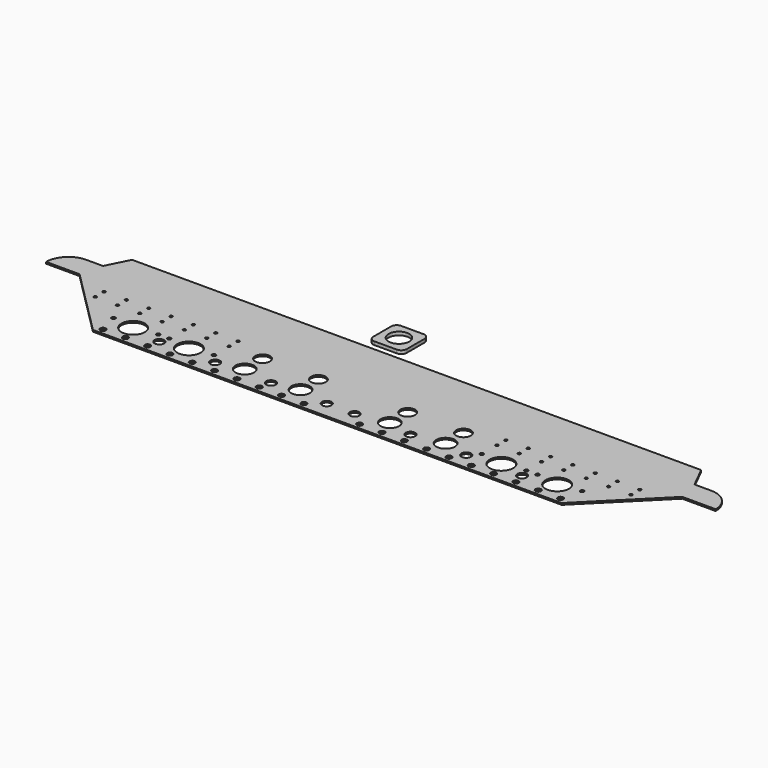
from build123d import *

# Parameters (mm, degrees)
F0_R     = 2.5
F0_R_2   = 4.25
F0_R_3   = 10.5
F0_R_4   = 1.65
F0_R_5   = 8.35
F0_R_6   = 1.25
F0_R_7   = 6.6
F1_DEPTH = 1.5
F2_R     = 9.3
F3_DEPTH = 3


with BuildPart() as f1:
    # F0 (on Top) → F1 (new body)
    with BuildSketch(Plane.XY):
        with BuildLine():
            Line((255, 0), (0, 0))
            Line((0, 0), (-255, 0))
            Line((-255, 0), (-265, -20))
            Line((-265, -20), (-280, -20))
            ThreePointArc((-280, -20), (-294.142136, -25.857864), (-300, -40))
            Line((-300, -40), (-270, -40))
            Line((-270, -40), (-210, -100))
            Line((-210, -100), (0, -100))
            Line((0, -100), (210, -100))
            Line((210, -100), (270, -40))
            Line((270, -40), (300, -40))
            ThreePointArc((300, -40), (294.142136, -25.857864), (280, -20))
            Line((280, -20), (265, -20))
            Line((265, -20), (255, 0))
        make_face()
        with Locations((-205, -95)):
            Circle(F0_R, mode=Mode.SUBTRACT)
        with Locations((-185, -95)):
            Circle(F0_R, mode=Mode.SUBTRACT)
        with Locations((-165, -95)):
            Circle(F0_R, mode=Mode.SUBTRACT)
        with Locations((-162.5, -85)):
            Circle(F0_R_2, mode=Mode.SUBTRACT)
        with Locations((-190, -80)):
            Circle(F0_R_3, mode=Mode.SUBTRACT)
        with Locations((-210, -77)):
            Circle(F0_R_4, mode=Mode.SUBTRACT)
        with Locations((-170, -77)):
            Circle(F0_R_4, mode=Mode.SUBTRACT)
        with Locations((-160, -77)):
            Circle(F0_R_4, mode=Mode.SUBTRACT)
        with Locations((-145, -95)):
            Circle(F0_R, mode=Mode.SUBTRACT)
        with Locations((-125, -95)):
            Circle(F0_R, mode=Mode.SUBTRACT)
        with Locations((-105, -95)):
            Circle(F0_R, mode=Mode.SUBTRACT)
        with Locations((-85, -95)):
            Circle(F0_R, mode=Mode.SUBTRACT)
        with Locations((-65, -95)):
            Circle(F0_R, mode=Mode.SUBTRACT)
        with Locations((-45, -95)):
            Circle(F0_R, mode=Mode.SUBTRACT)
        with Locations((-25, -95)):
            Circle(F0_R, mode=Mode.SUBTRACT)
        with Locations((-112.5, -85)):
            Circle(F0_R_2, mode=Mode.SUBTRACT)
        with Locations((-140, -80)):
            Circle(F0_R_3, mode=Mode.SUBTRACT)
        with Locations((-120, -77)):
            Circle(F0_R_4, mode=Mode.SUBTRACT)
        with Locations((-90, -80)):
            Circle(F0_R_5, mode=Mode.SUBTRACT)
        with Locations((-62.5, -85)):
            Circle(F0_R_2, mode=Mode.SUBTRACT)
        with Locations((-12.5, -85)):
            Circle(F0_R_2, mode=Mode.SUBTRACT)
        with Locations((-40, -80)):
            Circle(F0_R_5, mode=Mode.SUBTRACT)
        with Locations((-240, -60)):
            Circle(F0_R_6, mode=Mode.SUBTRACT)
        with Locations((-220, -60)):
            Circle(F0_R_6, mode=Mode.SUBTRACT)
        with Locations((-200, -60)):
            Circle(F0_R_6, mode=Mode.SUBTRACT)
        with Locations((-180, -60)):
            Circle(F0_R_6, mode=Mode.SUBTRACT)
        with Locations((-160, -60)):
            Circle(F0_R_6, mode=Mode.SUBTRACT)
        with Locations((-140, -60)):
            Circle(F0_R_6, mode=Mode.SUBTRACT)
        with Locations((-120, -60)):
            Circle(F0_R_6, mode=Mode.SUBTRACT)
        with Locations((-90, -60)):
            Circle(F0_R_7, mode=Mode.SUBTRACT)
        with Locations((-40, -60)):
            Circle(F0_R_7, mode=Mode.SUBTRACT)
        with Locations((25, -95)):
            Circle(F0_R, mode=Mode.SUBTRACT)
        with Locations((45, -95)):
            Circle(F0_R, mode=Mode.SUBTRACT)
        with Locations((65, -95)):
            Circle(F0_R, mode=Mode.SUBTRACT)
        with Locations((85, -95)):
            Circle(F0_R, mode=Mode.SUBTRACT)
        with Locations((105, -95)):
            Circle(F0_R, mode=Mode.SUBTRACT)
        with Locations((125, -95)):
            Circle(F0_R, mode=Mode.SUBTRACT)
        with Locations((145, -95)):
            Circle(F0_R, mode=Mode.SUBTRACT)
        with Locations((12.5, -85)):
            Circle(F0_R_2, mode=Mode.SUBTRACT)
        with Locations((62.5, -85)):
            Circle(F0_R_2, mode=Mode.SUBTRACT)
        with Locations((40, -80)):
            Circle(F0_R_5, mode=Mode.SUBTRACT)
        with Locations((112.5, -85)):
            Circle(F0_R_2, mode=Mode.SUBTRACT)
        with Locations((90, -80)):
            Circle(F0_R_5, mode=Mode.SUBTRACT)
        with Locations((140, -80)):
            Circle(F0_R_3, mode=Mode.SUBTRACT)
        with Locations((120, -77)):
            Circle(F0_R_4, mode=Mode.SUBTRACT)
        with Locations((165, -95)):
            Circle(F0_R, mode=Mode.SUBTRACT)
        with Locations((185, -95)):
            Circle(F0_R, mode=Mode.SUBTRACT)
        with Locations((205, -95)):
            Circle(F0_R, mode=Mode.SUBTRACT)
        with Locations((162.5, -85)):
            Circle(F0_R_2, mode=Mode.SUBTRACT)
        with Locations((160, -77)):
            Circle(F0_R_4, mode=Mode.SUBTRACT)
        with Locations((170, -77)):
            Circle(F0_R_4, mode=Mode.SUBTRACT)
        with Locations((190, -80)):
            Circle(F0_R_3, mode=Mode.SUBTRACT)
        with Locations((210, -77)):
            Circle(F0_R_4, mode=Mode.SUBTRACT)
        with Locations((40, -60)):
            Circle(F0_R_7, mode=Mode.SUBTRACT)
        with Locations((90, -60)):
            Circle(F0_R_7, mode=Mode.SUBTRACT)
        with Locations((120, -60)):
            Circle(F0_R_6, mode=Mode.SUBTRACT)
        with Locations((140, -60)):
            Circle(F0_R_6, mode=Mode.SUBTRACT)
        with Locations((160, -60)):
            Circle(F0_R_6, mode=Mode.SUBTRACT)
        with Locations((180, -60)):
            Circle(F0_R_6, mode=Mode.SUBTRACT)
        with Locations((200, -60)):
            Circle(F0_R_6, mode=Mode.SUBTRACT)
        with Locations((220, -60)):
            Circle(F0_R_6, mode=Mode.SUBTRACT)
        with Locations((240, -60)):
            Circle(F0_R_6, mode=Mode.SUBTRACT)
        with Locations((-240, -50)):
            Circle(F0_R_6, mode=Mode.SUBTRACT)
        with Locations((-220, -50)):
            Circle(F0_R_6, mode=Mode.SUBTRACT)
        with Locations((-200, -50)):
            Circle(F0_R_6, mode=Mode.SUBTRACT)
        with Locations((-180, -50)):
            Circle(F0_R_6, mode=Mode.SUBTRACT)
        with Locations((-160, -50)):
            Circle(F0_R_6, mode=Mode.SUBTRACT)
        with Locations((-140, -50)):
            Circle(F0_R_6, mode=Mode.SUBTRACT)
        with Locations((-120, -50)):
            Circle(F0_R_6, mode=Mode.SUBTRACT)
        with Locations((120, -50)):
            Circle(F0_R_6, mode=Mode.SUBTRACT)
        with Locations((140, -50)):
            Circle(F0_R_6, mode=Mode.SUBTRACT)
        with Locations((160, -50)):
            Circle(F0_R_6, mode=Mode.SUBTRACT)
        with Locations((180, -50)):
            Circle(F0_R_6, mode=Mode.SUBTRACT)
        with Locations((200, -50)):
            Circle(F0_R_6, mode=Mode.SUBTRACT)
        with Locations((220, -50)):
            Circle(F0_R_6, mode=Mode.SUBTRACT)
        with Locations((240, -50)):
            Circle(F0_R_6, mode=Mode.SUBTRACT)
    extrude(amount=F1_DEPTH)


with BuildPart() as f3:
    # F2 (on Top) → F3 (new body)
    with BuildSketch(Plane.XY):
        with BuildLine():
            ThreePointArc((-43.567896, 37.199946), (-47.10343, 35.73548), (-48.567896, 32.199946))
            Line((-48.567896, 32.199946), (-48.567896, 22.199946))
            Line((-48.567896, 22.199946), (-48.567896, 12.199946))
            ThreePointArc((-48.567896, 12.199946), (-47.10343, 8.664412), (-43.567896, 7.199946))
            Line((-43.567896, 7.199946), (-33.567896, 7.199946))
            Line((-33.567896, 7.199946), (-23.567896, 7.199946))
            ThreePointArc((-23.567896, 7.199946), (-20.032362, 8.664412), (-18.567896, 12.199946))
            Line((-18.567896, 12.199946), (-18.567896, 22.199946))
            Line((-18.567896, 22.199946), (-18.567896, 32.199946))
            ThreePointArc((-18.567896, 32.199946), (-20.032362, 35.73548), (-23.567896, 37.199946))
            Line((-23.567896, 37.199946), (-33.567896, 37.199946))
            Line((-33.567896, 37.199946), (-43.567896, 37.199946))
        make_face()
        with Locations((-33.567896, 22.199946)):
            Circle(F2_R, mode=Mode.SUBTRACT)
    extrude(amount=F3_DEPTH)


solid = Compound([f1.part, f3.part])
